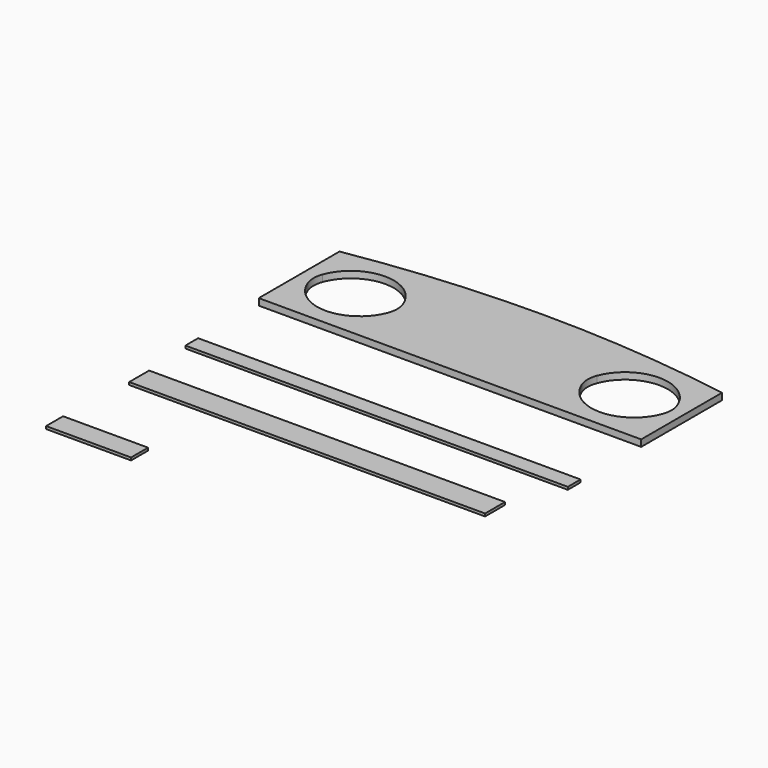
from build123d import *

# Parameters (mm, degrees)
F1_DEPTH = 31.75
F0_W     = 1828.8
F0_H     = 76.2
F0_W_2   = 1701.8
F0_H_2   = 118.999
F0_W_3   = 406.4
F0_H_3   = 101.6
F2_DEPTH = 12.7


with BuildPart() as f1:
    # F0 (on Top) → F1 (new body)
    with BuildSketch(Plane.XY):
        with BuildLine():
            Line((-914.4, 482.6), (-914.4, 0))
            Line((-914.4, 0), (914.4, 0))
            Line((914.4, 0), (914.4, 482.6))
            ThreePointArc((914.4, 482.6), (0, 558.8), (-914.4, 482.6))
        make_face()
        with BuildLine():
            ThreePointArc((-847.712088, 298.302326), (-655.576116, 431.8), (-463.440145, 298.302326))
            ThreePointArc((-463.440145, 298.302326), (-455.462428, 254), (-463.440145, 209.697674))
            ThreePointArc((-463.440145, 209.697674), (-655.576116, 76.2), (-847.712088, 209.697674))
            ThreePointArc((-847.712088, 209.697674), (-855.689805, 254), (-847.712088, 298.302326))
        make_face(mode=Mode.SUBTRACT)
        with BuildLine():
            ThreePointArc((463.440145, 298.302326), (655.576116, 431.8), (847.712088, 298.302326))
            ThreePointArc((847.712088, 298.302326), (855.689805, 254), (847.712088, 209.697674))
            ThreePointArc((847.712088, 209.697674), (655.576116, 76.2), (463.440145, 209.697674))
            ThreePointArc((463.440145, 209.697674), (455.462428, 254), (463.440145, 298.302326))
        make_face(mode=Mode.SUBTRACT)
    extrude(amount=F1_DEPTH)


with BuildPart() as f2:
    # F0 (on Top) → F2 (new body)
    with BuildSketch(Plane.XY):
        with Locations((2.856452, -404.050235)):
            Rectangle(F0_W, F0_H)
        with Locations((-40.168518, -744.020762)):
            Rectangle(F0_W_2, F0_H_2)
        with Locations((-707.803947, -1224.758114)):
            Rectangle(F0_W_3, F0_H_3)
    extrude(amount=F2_DEPTH)


solid = Compound([f1.part, f2.part])
